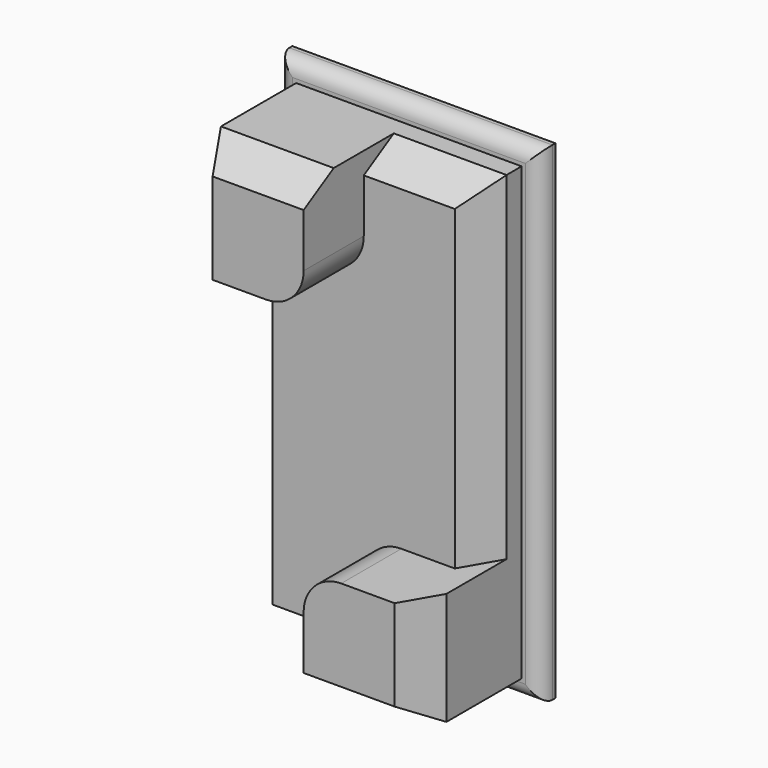
from build123d import *

# Parameters (mm, degrees)
F0_W     = 88.8999989152
F0_H     = 165.0999989152
F1_DEPTH = 6.35
F2_DEPTH = 25.4
F3_DEPTH = 50.8
F4_R     = 5.08
F5_SIZE2 = 7.3323484187
F5_SIZE  = 12.7


with BuildPart() as f1:
    # F0 (on Front) → F1 (new body)
    with BuildSketch(Plane.XZ):
        with Locations((-9.271614182, -26.4538442612)):
            Rectangle(F0_W, F0_H)
        Polygon((-47.371614182, 11.6461557388), (-47.371614182, 49.7461557388), (-9.271614182, 49.7461557388), (28.828385818, 49.7461557388), (28.828385818, -64.5538442612), (28.828385818, -102.6538442612), (-9.271614182, -102.6538442612), (-47.371614182, -102.6538442612), align=None, mode=Mode.SUBTRACT)
    extrude(amount=F1_DEPTH)

    # F0 (on Front) → F2 (join)
    with BuildSketch(Plane.XZ):
        with BuildLine():
            Line((-21.971614182, 11.6461557388), (-47.371614182, 11.6461557388))
            Line((-47.371614182, 11.6461557388), (-47.371614182, -102.6538442612))
            Line((-47.371614182, -102.6538442612), (-9.271614182, -102.6538442612))
            Line((-9.271614182, -102.6538442612), (-9.271614182, -77.2538442612))
            ThreePointArc((-9.271614182, -77.2538442612), (-5.5518703031, -68.2735881401), (3.428385818, -64.5538442612))
            Line((3.428385818, -64.5538442612), (28.828385818, -64.5538442612))
            Line((28.828385818, -64.5538442612), (28.828385818, 49.7461557388))
            Line((28.828385818, 49.7461557388), (-9.271614182, 49.7461557388))
            Line((-9.271614182, 49.7461557388), (-9.271614182, 24.3461557388))
            ThreePointArc((-9.271614182, 24.3461557388), (-12.9913580609, 15.3658996178), (-21.971614182, 11.6461557388))
        make_face()
    extrude(amount=F2_DEPTH)

    # F0 (on Front) → F3 (join)
    with BuildSketch(Plane.XZ):
        with BuildLine():
            Line((-9.271614182, 49.7461557388), (-47.371614182, 49.7461557388))
            Line((-47.371614182, 49.7461557388), (-47.371614182, 11.6461557388))
            Line((-47.371614182, 11.6461557388), (-21.971614182, 11.6461557388))
            ThreePointArc((-21.971614182, 11.6461557388), (-12.9913580609, 15.3658996178), (-9.271614182, 24.3461557388))
            Line((-9.271614182, 24.3461557388), (-9.271614182, 49.7461557388))
        make_face()
        with BuildLine():
            Line((-9.271614182, -77.2538442612), (-9.271614182, -102.6538442612))
            Line((-9.271614182, -102.6538442612), (28.828385818, -102.6538442612))
            Line((28.828385818, -102.6538442612), (28.828385818, -64.5538442612))
            Line((28.828385818, -64.5538442612), (3.428385818, -64.5538442612))
            ThreePointArc((3.428385818, -64.5538442612), (-5.5518703031, -68.2735881401), (-9.271614182, -77.2538442612))
        make_face()
    extrude(amount=F3_DEPTH)

    # F4
    f4_edges = [f1.edges().sort_by_distance(p)[0] for p in [
        (35.178385, -6.35, -26.453844),
        (-9.271614, -6.35, -109.003844),
        (-53.721614, -6.35, -26.453844),
        (-9.271614, -6.35, 56.096155),
    ]]
    fillet(f4_edges, radius=F4_R)

    # F5
    f5_edges = [f1.edges().sort_by_distance(p)[0] for p in [
        (-47.371614, -50.8, 30.696156),
        (-28.321614, -50.8, 49.746156),
        (9.778386, -50.8, -102.653844),
        (28.828386, -50.8, -83.603844),
        (28.828386, -25.4, -7.403844),
        (-47.371614, -25.4, -45.503844),
        (-28.321614, -25.4, -102.653844),
        (9.778386, -25.4, 49.746156),
    ]]
    chamfer(f5_edges, length=F5_SIZE, length2=F5_SIZE2)


solid = f1.part
